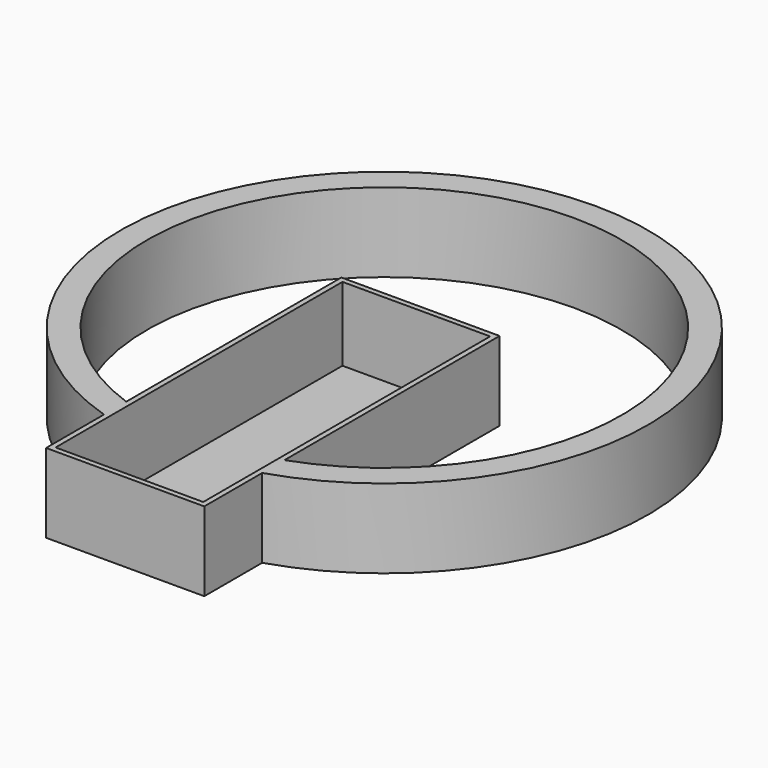
from build123d import *

# Parameters (mm, degrees)
F0_R     = 50
F0_R_2   = 45
F1_DEPTH = 15
F2_W     = 30
F2_H     = 15
F3_DEPTH = 50
F5_W     = 30
F5_H     = 70
F5_W_2   = 28
F5_H_2   = 68
F6_DEPTH = 15
F7_W     = 28
F7_H     = 68
F8_DEPTH = 1


with BuildPart() as f1:
    # F0 (on Top) → F1 (new body)
    with BuildSketch(Plane.XY):
        Circle(F0_R)
        Circle(F0_R_2, mode=Mode.SUBTRACT)
    extrude(amount=F1_DEPTH)

    # F2 (on Front) → F3 (cut)
    with BuildSketch(Plane.XZ):
        with Locations((0, 7.5)):
            Rectangle(F2_W, F2_H)
    extrude(amount=F3_DEPTH, mode=Mode.SUBTRACT)

    # F5 (on face) → F6 (join)
    with BuildSketch(Plane.XY):
        with Locations((0, -26.421925)):
            Rectangle(F5_W, F5_H)
        with Locations((0, -26.421925)):
            Rectangle(F5_W_2, F5_H_2, mode=Mode.SUBTRACT)
    extrude(amount=F6_DEPTH)

    # F7 (on Top) → F8 (join)
    with BuildSketch(Plane.XY):
        with Locations((0, -26.421925)):
            Rectangle(F7_W, F7_H)
    extrude(amount=F8_DEPTH)


solid = f1.part
